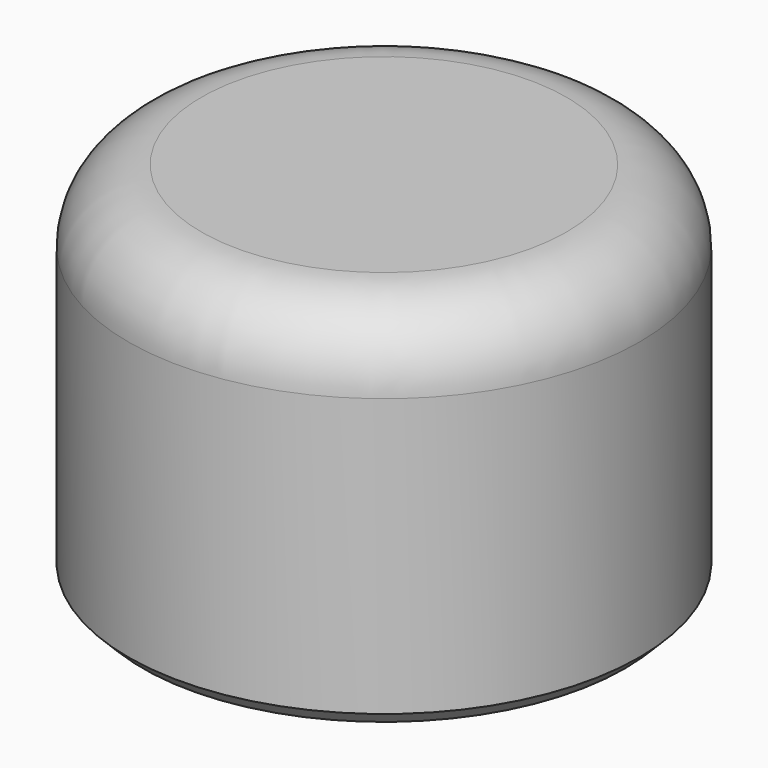
from build123d import *

# Parameters (mm, degrees)
F0_R     = 17.5
F1_DEPTH = 25
F2_R     = 5
F3_SIZE  = 1
F4_D     = 6.5278
F4_DEPTH = 16.2333333333
F4_TIP   = 1.9611489744


with BuildPart() as f1:
    # F0 (on Top) → F1 (new body)
    with BuildSketch(Plane.XY):
        Circle(F0_R)
    extrude(amount=F1_DEPTH)

    # F2
    f2_edges = [f1.edges().sort_by_distance(p)[0] for p in [
        (-17.5, 0, 25),
    ]]
    fillet(f2_edges, radius=F2_R)

    # F3
    f3_edges = [f1.edges().sort_by_distance(p)[0] for p in [
        (-17.5, 0, 0),
    ]]
    chamfer(f3_edges, length=F3_SIZE)

    # F4
    with Locations(Plane(origin=(0, 0, 0), x_dir=(1, 0, 0), z_dir=(0, 0, -1))):
        with Locations((0, 0)):
            Hole(F4_D / 2, depth=F4_DEPTH)
            with Locations((0, 0, -(F4_DEPTH + F4_TIP / 2))):  # 118° drill point
                Cone(0, F4_D / 2, F4_TIP, mode=Mode.SUBTRACT)


solid = f1.part
